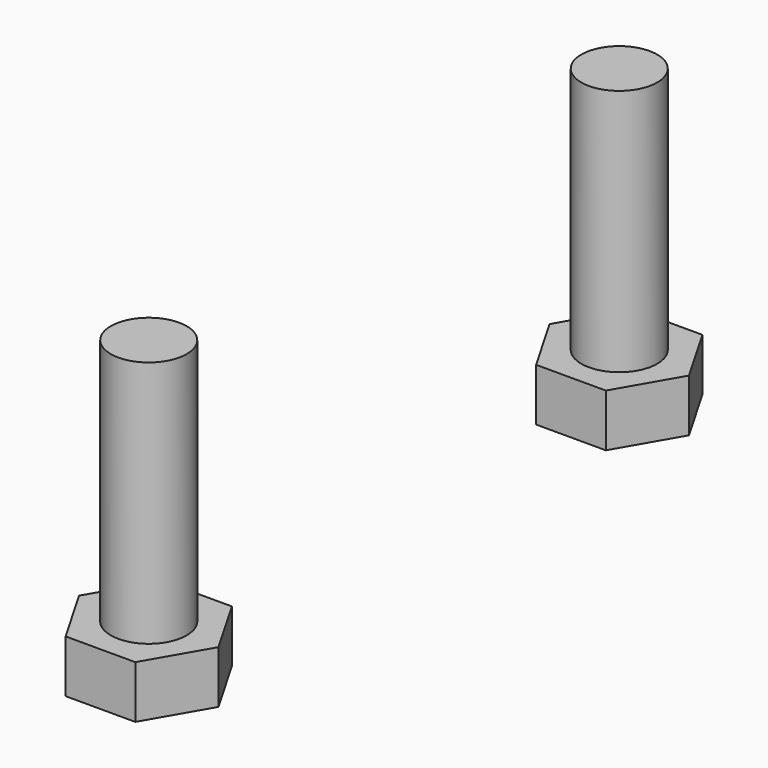
from build123d import *

# Parameters (mm, degrees)
PAD021_DEPTH     = 3.4
SKETCH034_R      = 2.45
PAD022_DEPTH     = 16
ARRAY001_Y_COUNT = 2
ARRAY001_Y_PITCH = 38


with BuildPart() as part:
    # Sketch035 → Pad021 (new body)
    with BuildSketch(Plane(origin=(352, 102, 8), x_dir=(0.866025, 0.5, 0), z_dir=(0, 0, 1))):
        Polygon((0, 4.503332), (-3.9, 2.251666), (-3.9, -2.251666), (0, -4.503332), (3.9, -2.251666), (3.9, 2.251666), align=None)
    extrude(amount=PAD021_DEPTH)

    # Sketch034 → Pad022 (new body)
    with BuildSketch(Plane(origin=(352, 102, 11.4), x_dir=(0.866025, 0.5, 0), z_dir=(0, 0, 1))):
        Circle(SKETCH034_R)
    extrude(amount=PAD022_DEPTH)


with BuildPart() as part_1:
    # Clone003 placement: moved
    add(part.part.moved(Location((-332, -255, 0))))

    # Array001 Y: part ×2


with BuildPart() as part_2:
    add(part_1.part)
    with Locations(*[(0, i * ARRAY001_Y_PITCH, 0) for i in range(1, ARRAY001_Y_COUNT)]):
        add(part_1.part)


solid = part_2.part
